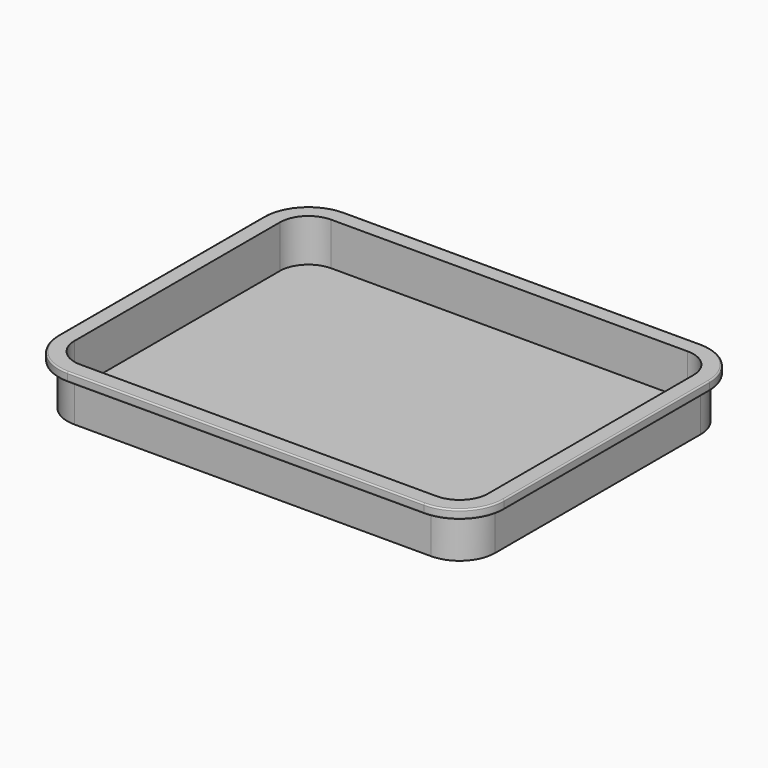
from build123d import *

# Parameters (mm, degrees)
F1_DEPTH      = 7
F3_DEPTH      = 1.25
F5_DEPTH      = 6
F5_DEPTH_BACK = 25
F6_R          = 0.2


with BuildPart() as f1:
    # F0 (on Top) → F1 (new body)
    with BuildSketch(Plane.XY):
        with BuildLine():
            Line((-6.0128417611, 8.0285779238), (-56.0128417611, 8.0285779238))
            ThreePointArc((-56.0128417611, 8.0285779238), (-59.548375667, 6.5641118297), (-61.0128417611, 3.0285779238))
            Line((-61.0128417611, 3.0285779238), (-61.0128417611, -32.9714220762))
            ThreePointArc((-61.0128417611, -32.9714220762), (-59.548375667, -36.5069559822), (-56.0128417611, -37.9714220762))
            Line((-56.0128417611, -37.9714220762), (-6.0128417611, -37.9714220762))
            ThreePointArc((-6.0128417611, -37.9714220762), (-2.4773078552, -36.5069559822), (-1.0128417611, -32.9714220762))
            Line((-1.0128417611, -32.9714220762), (-1.0128417611, 3.0285779238))
            ThreePointArc((-1.0128417611, 3.0285779238), (-2.4773078552, 6.5641118297), (-6.0128417611, 8.0285779238))
        make_face()
    extrude(amount=F1_DEPTH)

    # F2 (on face) → F3 (join)
    with BuildSketch(Plane.XY.offset(7)):
        with BuildLine():
            ThreePointArc((-56.0128417611, 9.2785779238), (-60.4322591435, 7.4479953062), (-62.2628417611, 3.0285779238))
            Line((-62.2628417611, 3.0285779238), (-62.2628417611, -32.9714220762))
            ThreePointArc((-62.2628417611, -32.9714220762), (-60.4322591435, -37.3908394586), (-56.0128417611, -39.2214220762))
            Line((-56.0128417611, -39.2214220762), (-6.0128417611, -39.2214220762))
            ThreePointArc((-6.0128417611, -39.2214220762), (-1.5934243787, -37.3908394586), (0.2371582389, -32.9714220762))
            Line((0.2371582389, -32.9714220762), (0.2371582389, 3.0285779238))
            ThreePointArc((0.2371582389, 3.0285779238), (-1.5934243787, 7.4479953062), (-6.0128417611, 9.2785779238))
            Line((-6.0128417611, 9.2785779238), (-56.0128417611, 9.2785779238))
        make_face()
    extrude(amount=-F3_DEPTH)

    # F4 (on face) → F5 (cut, two sides)
    with BuildSketch(Plane.XY.offset(7)) as f5_sk:
        with BuildLine():
            ThreePointArc((-56.0128417611, 7.0285779238), (-58.8412688859, 5.8570050485), (-60.0128417611, 3.0285779238))
            Line((-60.0128417611, 3.0285779238), (-60.0128417611, -32.9714220762))
            ThreePointArc((-60.0128417611, -32.9714220762), (-58.8412688859, -35.799849201), (-56.0128417611, -36.9714220762))
            Line((-56.0128417611, -36.9714220762), (-6.0128417611, -36.9714220762))
            ThreePointArc((-6.0128417611, -36.9714220762), (-3.1844146364, -35.799849201), (-2.0128417611, -32.9714220762))
            Line((-2.0128417611, -32.9714220762), (-2.0128417611, 3.0285779238))
            ThreePointArc((-2.0128417611, 3.0285779238), (-3.1844146364, 5.8570050485), (-6.0128417611, 7.0285779238))
            Line((-6.0128417611, 7.0285779238), (-56.0128417611, 7.0285779238))
        make_face()
    extrude(amount=-F5_DEPTH, mode=Mode.SUBTRACT)
    extrude(f5_sk.sketch, amount=F5_DEPTH_BACK, mode=Mode.SUBTRACT)

    # F6
    f6_edges = [f1.edges().sort_by_distance(p)[0] for p in [
        (-62.262842, -14.971422, 7),
        (-60.432259, -37.390839, 7),
        (-31.012842, -39.221422, 7),
        (-1.593424, -37.390839, 7),
        (0.237158, -14.971422, 7),
        (-1.593424, 7.447995, 7),
        (-31.012842, 9.278578, 7),
        (-60.432259, 7.447995, 7),
        (-1.593424, -37.390839, 5.75),
    ]]
    fillet(f6_edges, radius=F6_R)


solid = f1.part
